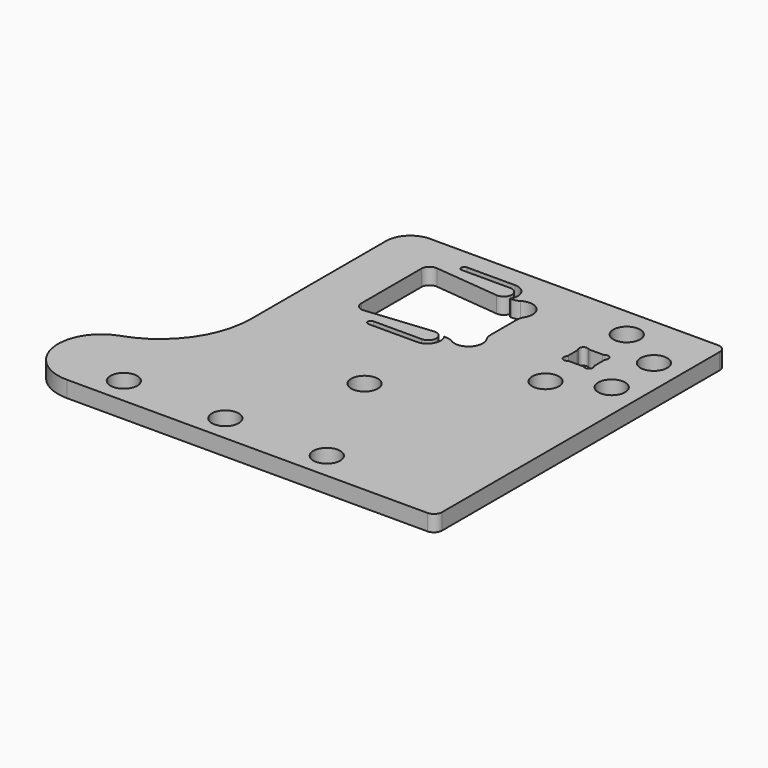
from build123d import *

# Parameters (mm, degrees)
SKETCH_R  = 6.6
PAD_DEPTH = 8


with BuildPart() as part:
    # Sketch → Pad (new body)
    with BuildSketch(Plane.XY):
        with BuildLine():
            Line((-4, 40), (-146, 40))
            ThreePointArc((-146, 40), (-154.485281, 36.485281), (-158, 28))
            Line((-158, -55), (-158, 28))
            ThreePointArc((-188.565904, -97.622258), (-166.431336, -81.224661), (-158, -55))
            ThreePointArc((-188.565904, -97.622258), (-202.717412, -121.203739), (-181.74971, -139))
            Line((-181.74971, -139), (-4, -139))
            ThreePointArc((-4, -139), (-1.171573, -137.828427), (0, -135))
            Line((0, 36), (0, -135))
            ThreePointArc((0, 36), (-1.171573, 38.828427), (-4, 40))
        make_face()
        with Locations((-37, 25)):
            Circle(SKETCH_R, mode=Mode.SUBTRACT)
        with Locations((-37, -25)):
            Circle(SKETCH_R, mode=Mode.SUBTRACT)
        with Locations((-14, 13)):
            Circle(SKETCH_R, mode=Mode.SUBTRACT)
        with Locations((-14, -13)):
            Circle(SKETCH_R, mode=Mode.SUBTRACT)
        with Locations((-164, -126)):
            Circle(SKETCH_R, mode=Mode.SUBTRACT)
        with Locations((-114, -126)):
            Circle(SKETCH_R, mode=Mode.SUBTRACT)
        with Locations((-64, -126)):
            Circle(SKETCH_R, mode=Mode.SUBTRACT)
        with Locations((-90.2, -70)):
            Circle(SKETCH_R, mode=Mode.SUBTRACT)
        with BuildLine():
            Line((-40.101765, 6.2), (-33.898235, 6.2))
            ThreePointArc((-33.898235, 6.2), (-33.357039, 6.274615), (-32.856224, 6.492893))
            ThreePointArc((-30.107107, 3.743776), (-30.4, 6.2), (-32.856224, 6.492893))
            ThreePointArc((-30.107107, 3.743776), (-30.325385, 3.242961), (-30.4, 2.701765))
            Line((-30.4, 2.701765), (-30.4, -2.701765))
            ThreePointArc((-30.4, -2.701765), (-30.325385, -3.242961), (-30.107107, -3.743776))
            ThreePointArc((-32.856224, -6.492893), (-30.4, -6.2), (-30.107107, -3.743776))
            ThreePointArc((-32.856224, -6.492893), (-33.357039, -6.274615), (-33.898235, -6.2))
            Line((-33.898235, -6.2), (-40.101765, -6.2))
            ThreePointArc((-40.101765, -6.2), (-40.642961, -6.274615), (-41.143776, -6.492893))
            ThreePointArc((-43.892893, -3.743776), (-43.6, -6.2), (-41.143776, -6.492893))
            ThreePointArc((-43.892893, -3.743776), (-43.674615, -3.242961), (-43.6, -2.701765))
            Line((-43.6, -2.701765), (-43.6, 2.701765))
            ThreePointArc((-43.6, 2.701765), (-43.674615, 3.242961), (-43.892893, 3.743776))
            ThreePointArc((-41.143776, 6.492893), (-43.6, 6.2), (-43.892893, 3.743776))
            ThreePointArc((-41.143776, 6.492893), (-40.642961, 6.274615), (-40.101765, 6.2))
        make_face(mode=Mode.SUBTRACT)
        with BuildLine():
            Line((-90.7, 20.3), (-89.943823, 20.3))
            ThreePointArc((-89.943823, 20.3), (-88.049637, 20.561153), (-86.296785, 21.325126))
            ThreePointArc((-76.674874, 11.703215), (-77.700001, 20.3), (-86.296785, 21.325126))
            ThreePointArc((-76.674874, 11.703215), (-77.438847, 9.950364), (-77.7, 8.056178))
            Line((-77.7, 8.056178), (-77.7, -8.056178))
            ThreePointArc((-77.7, -8.056178), (-77.438847, -9.950365), (-76.674874, -11.703216))
            ThreePointArc((-86.296785, -21.325126), (-77.7, -20.3), (-76.674874, -11.703216))
            ThreePointArc((-86.296785, -21.325126), (-88.049636, -20.561153), (-89.943822, -20.3))
            Line((-90.7, -20.3), (-89.943822, -20.3))
            ThreePointArc((-96.2, -30.280093), (-90.502363, -26.91448), (-90.7, -20.3))
            Line((-96.2, -30.280093), (-120, -30.280093))
            ThreePointArc((-120, -27.280093), (-121.5, -28.780093), (-120, -30.280093))
            Line((-96.2, -27.280093), (-120, -27.280093))
            ThreePointArc((-96.2, -27.280093), (-92.20498, -23.080559), (-96.598572, -19.3))
            Line((-128.601428, -22.504808), (-96.598572, -19.3))
            ThreePointArc((-133, -18.524715), (-131.683814, -21.490713), (-128.601428, -22.504808))
            Line((-133, 18.524715), (-133, -18.524715))
            ThreePointArc((-128.601428, 22.504808), (-131.683814, 21.490713), (-133, 18.524715))
            Line((-128.601428, 22.504808), (-96.598572, 19.3))
            ThreePointArc((-96.598572, 19.3), (-92.20498, 23.080559), (-96.2, 27.280093))
            Line((-96.2, 27.280093), (-120, 27.280093))
            ThreePointArc((-120, 30.280093), (-121.5, 28.780093), (-120, 27.280093))
            Line((-96.2, 30.280093), (-120, 30.280093))
            ThreePointArc((-90.7, 20.3), (-90.502363, 26.91448), (-96.2, 30.280093))
        make_face(mode=Mode.SUBTRACT)
    extrude(amount=-PAD_DEPTH)


solid = part.part
